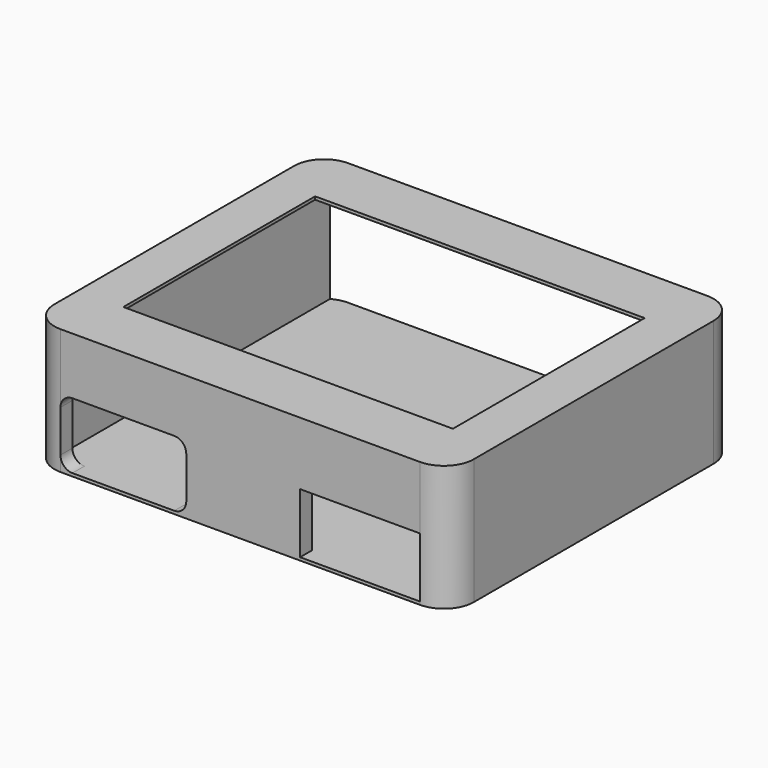
from build123d import *

# Parameters (mm, degrees)
F0_W      = 70
F0_H      = 60
F1_DEPTH  = 21
F2_R      = 5
F3_W      = 65
F3_H      = 20
F4_DEPTH  = 57.5
F5_W      = 55
F5_H      = 40
F6_DEPTH  = 1
F8_DEPTH  = 5
F9_W      = 20
F9_H      = 10
F10_DEPTH = 4


with BuildPart() as f1:
    # F0 (on Top) → F1 (new body)
    with BuildSketch(Plane.XY):
        Rectangle(F0_W, F0_H)
    extrude(amount=F1_DEPTH)

    # F2
    f2_edges = [f1.edges().sort_by_distance(p)[0] for p in [
        (-35, -30, 10.5),
        (-35, 30, 10.5),
        (35, 30, 10.5),
        (35, -30, 10.5),
    ]]
    fillet(f2_edges, radius=F2_R)

    # F3 (on face) → F4 (cut)
    with BuildSketch(Plane(origin=(0, 30, 0), x_dir=(-1, 0, 0), z_dir=(0, 1, 0))):
        with Locations((0, 10.5)):
            Rectangle(F3_W, F3_H)
    extrude(amount=-F4_DEPTH, mode=Mode.SUBTRACT)

    # F5 (on face) → F6 (cut)
    with BuildSketch(Plane.XY.offset(21)):
        Rectangle(F5_W, F5_H)
    extrude(amount=-F6_DEPTH, mode=Mode.SUBTRACT)

    # F7 (on face) → F8 (cut)
    with BuildSketch(Plane.XZ.offset(30)):
        with BuildLine():
            ThreePointArc((-9, 9.5), (-9.585786, 10.914214), (-11, 11.5))
            Line((-11, 11.5), (-28, 11.5))
            ThreePointArc((-28, 11.5), (-29.414214, 10.914214), (-30, 9.5))
            Line((-30, 9.5), (-30, 2.5))
            ThreePointArc((-30, 2.5), (-29.414214, 1.085786), (-28, 0.5))
            Line((-28, 0.5), (-11, 0.5))
            ThreePointArc((-11, 0.5), (-9.585786, 1.085786), (-9, 2.5))
            Line((-9, 2.5), (-9, 9.5))
        make_face()
    extrude(amount=-F8_DEPTH, mode=Mode.SUBTRACT)

    # F9 (on face) → F10 (cut)
    with BuildSketch(Plane.XZ.offset(30)):
        with Locations((20, 5.5)):
            Rectangle(F9_W, F9_H)
    extrude(amount=-F10_DEPTH, mode=Mode.SUBTRACT)


solid = f1.part
